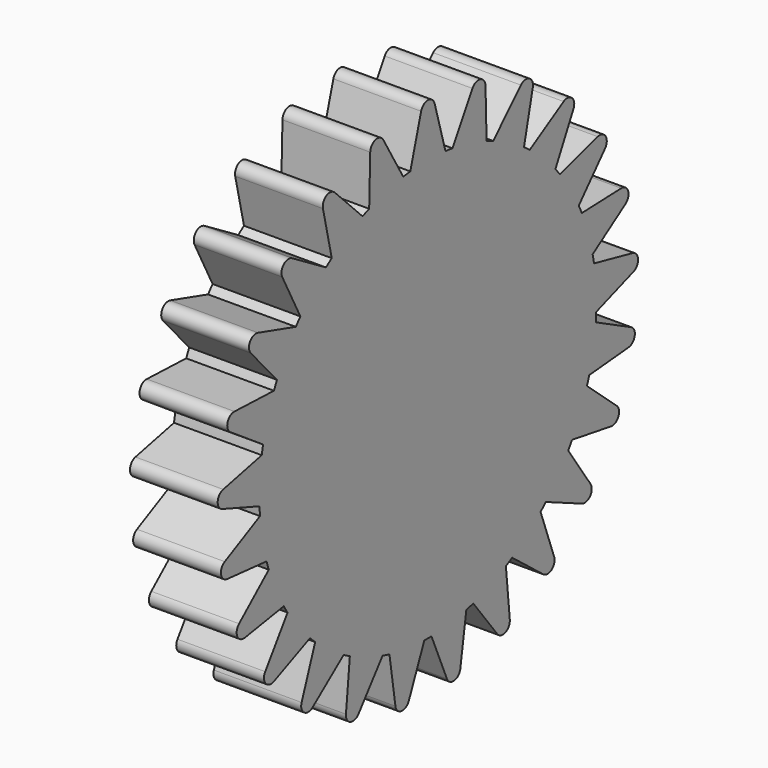
from build123d import *

# Parameters (mm, degrees)
F1_DEPTH = 5


with BuildPart() as f1:
    # F0 (on Right) → F1 (new body)
    with BuildSketch(Plane.YZ):
        with BuildLine():
            Line((1.251901, 11.934519), (0.480814, 14.637179))
            ThreePointArc((0.480814, 14.637179), (0, 15), (-0.480814, 14.637179))
            Line((-0.480814, 14.637179), (-1.251901, 11.934519))
            ThreePointArc((-1.251901, 11.934519), (0, 12), (1.251901, 11.934519))
        make_face()
        with BuildLine():
            ThreePointArc((1.755424, 11.870909), (1.503999, 11.905376), (1.251901, 11.934519))
            ThreePointArc((1.251901, 11.934519), (0, 12), (-1.251901, 11.934519))
            ThreePointArc((-1.251901, 11.934519), (-1.503999, 11.905376), (-1.755424, 11.870909))
            ThreePointArc((-1.755424, 11.870909), (-2.984279, 11.622998), (-4.180564, 11.248239))
            ThreePointArc((-4.180564, 11.248239), (-4.417495, 11.157318), (-4.652449, 11.061407))
            ThreePointArc((-4.652449, 11.061407), (-5.781044, 10.51568), (-6.846547, 9.855191))
            ThreePointArc((-6.846547, 9.855191), (-7.053423, 9.708204), (-7.257144, 9.556875))
            ThreePointArc((-7.257144, 9.556875), (-8.214565, 8.747624), (-9.082337, 7.842905))
            ThreePointArc((-9.082337, 7.842905), (-9.246159, 7.649088), (-9.405846, 7.45185))
            ThreePointArc((-9.405846, 7.45185), (-10.131935, 6.429922), (-10.74745, 5.33782))
            ThreePointArc((-10.74745, 5.33782), (-10.857925, 5.109351), (-10.963544, 4.878598))
            ThreePointArc((-10.963544, 4.878598), (-11.412678, 3.708204), (-11.737261, 2.497341))
            ThreePointArc((-11.737261, 2.497341), (-11.787447, 2.248576), (-11.832361, 1.998805))
            ThreePointArc((-11.832361, 1.998805), (-11.976321, 0.753486), (-11.989576, -0.500056))
            ThreePointArc((-11.989576, -0.500056), (-11.976321, -0.753486), (-11.957709, -1.00658))
            ThreePointArc((-11.957709, -1.00658), (-11.787447, -2.248576), (-11.488543, -3.466032))
            ThreePointArc((-11.488543, -3.466032), (-11.412678, -3.708204), (-11.331709, -3.948717))
            ThreePointArc((-11.331709, -3.948717), (-10.857925, -5.109351), (-10.265642, -6.214225))
            ThreePointArc((-10.265642, -6.214225), (-10.131935, -6.429922), (-9.993697, -6.642743))
            ThreePointArc((-9.993697, -6.642743), (-9.246159, -7.649088), (-8.397713, -8.571955))
            ThreePointArc((-8.397713, -8.571955), (-8.214565, -8.747624), (-8.027743, -8.91938))
            ThreePointArc((-8.027743, -8.91938), (-7.053423, -9.708204), (-6.002125, -10.391077))
            ThreePointArc((-6.002125, -10.391077), (-5.781044, -10.51568), (-5.557377, -10.63558))
            ThreePointArc((-5.557377, -10.63558), (-4.417495, -11.157318), (-3.229402, -11.557291))
            ThreePointArc((-3.229402, -11.557291), (-2.984279, -11.622998), (-2.737821, -11.683507))
            ThreePointArc((-2.737821, -11.683507), (-1.503999, -11.905376), (-0.253763, -11.997317))
            ThreePointArc((-0.253763, -11.997317), (0, -12), (0.253763, -11.997317))
            ThreePointArc((0.253763, -11.997317), (1.503999, -11.905376), (2.737821, -11.683507))
            ThreePointArc((2.737821, -11.683507), (2.984279, -11.622998), (3.229402, -11.557291))
            ThreePointArc((3.229402, -11.557291), (4.417495, -11.157318), (5.557377, -10.63558))
            ThreePointArc((5.557377, -10.63558), (5.781044, -10.51568), (6.002125, -10.391077))
            ThreePointArc((6.002125, -10.391077), (7.053423, -9.708204), (8.027743, -8.91938))
            ThreePointArc((8.027743, -8.91938), (8.214565, -8.747624), (8.397713, -8.571955))
            ThreePointArc((8.397713, -8.571955), (9.246159, -7.649088), (9.993697, -6.642743))
            ThreePointArc((9.993697, -6.642743), (10.131935, -6.429922), (10.265642, -6.214225))
            ThreePointArc((10.265642, -6.214225), (10.857925, -5.109351), (11.331709, -3.948717))
            ThreePointArc((11.331709, -3.948717), (11.412678, -3.708204), (11.488543, -3.466032))
            ThreePointArc((11.488543, -3.466032), (11.787447, -2.248576), (11.957709, -1.00658))
            ThreePointArc((11.957709, -1.00658), (11.976321, -0.753486), (11.989576, -0.500056))
            ThreePointArc((11.989576, -0.500056), (11.997394, -0.250082), (12, 0))
            ThreePointArc((12, 0), (11.958017, 1.002911), (11.832361, 1.998805))
            ThreePointArc((11.832361, 1.998805), (11.787447, 2.248576), (11.737261, 2.497341))
            ThreePointArc((11.737261, 2.497341), (11.412678, 3.708204), (10.963544, 4.878598))
            ThreePointArc((10.963544, 4.878598), (10.857925, 5.109351), (10.74745, 5.33782))
            ThreePointArc((10.74745, 5.33782), (10.131935, 6.429922), (9.405846, 7.45185))
            ThreePointArc((9.405846, 7.45185), (9.246159, 7.649088), (9.082337, 7.842905))
            ThreePointArc((9.082337, 7.842905), (8.214565, 8.747624), (7.257144, 9.556875))
            ThreePointArc((7.257144, 9.556875), (7.053423, 9.708204), (6.846547, 9.855191))
            ThreePointArc((6.846547, 9.855191), (5.781044, 10.51568), (4.652449, 11.061407))
            ThreePointArc((4.652449, 11.061407), (4.417495, 11.157318), (4.180564, 11.248239))
            ThreePointArc((4.180564, 11.248239), (2.984279, 11.622998), (1.755424, 11.870909))
        make_face()
        with BuildLine():
            Line((3.17441, 14.296899), (1.755424, 11.870909))
            ThreePointArc((1.755424, 11.870909), (2.984279, 11.622998), (4.180564, 11.248239))
            Line((4.180564, 11.248239), (4.105827, 14.057752))
            ThreePointArc((4.105827, 14.057752), (3.730348, 14.528747), (3.17441, 14.296899))
        make_face()
        with BuildLine():
            ThreePointArc((-4.180564, 11.248239), (-2.984279, 11.622998), (-1.755424, 11.870909))
            Line((-1.755424, 11.870909), (-3.17441, 14.296899))
            ThreePointArc((-3.17441, 14.296899), (-3.730348, 14.528747), (-4.105827, 14.057752))
            Line((-4.105827, 14.057752), (-4.180564, 11.248239))
        make_face()
        with BuildLine():
            Line((6.630175, 13.058292), (4.652449, 11.061407))
            ThreePointArc((4.652449, 11.061407), (5.781044, 10.51568), (6.846547, 9.855191))
            Line((6.846547, 9.855191), (7.472855, 12.595024))
            ThreePointArc((7.472855, 12.595024), (7.226305, 13.1446), (6.630175, 13.058292))
        make_face()
        with BuildLine():
            ThreePointArc((-6.846547, 9.855191), (-5.781044, 10.51568), (-4.652449, 11.061407))
            Line((-4.652449, 11.061407), (-6.630175, 13.058292))
            ThreePointArc((-6.630175, 13.058292), (-7.226305, 13.1446), (-7.472855, 12.595024))
            Line((-7.472855, 12.595024), (-6.846547, 9.855191))
        make_face()
        with BuildLine():
            Line((9.669341, 10.999184), (7.257144, 9.556875))
            ThreePointArc((7.257144, 9.556875), (8.214565, 8.747624), (9.082337, 7.842905))
            Line((9.082337, 7.842905), (10.370337, 10.340905))
            ThreePointArc((10.370337, 10.340905), (10.268207, 10.934529), (9.669341, 10.999184))
        make_face()
        with BuildLine():
            ThreePointArc((-9.082337, 7.842905), (-8.214565, 8.747624), (-7.257144, 9.556875))
            Line((-7.257144, 9.556875), (-9.669341, 10.999184))
            ThreePointArc((-9.669341, 10.999184), (-10.268207, 10.934529), (-10.370337, 10.340905))
            Line((-10.370337, 10.340905), (-9.082337, 7.842905))
        make_face()
        with BuildLine():
            Line((12.100946, 8.248957), (9.405846, 7.45185))
            ThreePointArc((9.405846, 7.45185), (10.131935, 6.429922), (10.74745, 5.33782))
            Line((10.74745, 5.33782), (12.616212, 7.437028))
            ThreePointArc((12.616212, 7.437028), (12.664919, 8.037402), (12.100946, 8.248957))
        make_face()
        with BuildLine():
            ThreePointArc((-10.74745, 5.33782), (-10.131935, 6.429922), (-9.405846, 7.45185))
            Line((-9.405846, 7.45185), (-12.100946, 8.248957))
            ThreePointArc((-12.100946, 8.248957), (-12.664919, 8.037402), (-12.616212, 7.437028))
            Line((-12.616212, 7.437028), (-10.74745, 5.33782))
        make_face()
        with BuildLine():
            Line((13.772205, 4.980418), (10.963544, 4.878598))
            ThreePointArc((10.963544, 4.878598), (11.412678, 3.708204), (11.737261, 2.497341))
            Line((11.737261, 2.497341), (14.069364, 4.065856))
            ThreePointArc((14.069364, 4.065856), (14.265848, 4.635255), (13.772205, 4.980418))
        make_face()
        with BuildLine():
            ThreePointArc((-11.737261, 2.497341), (-11.412678, 3.708204), (-10.963544, 4.878598))
            Line((-10.963544, 4.878598), (-13.772205, 4.980418))
            ThreePointArc((-13.772205, 4.980418), (-14.265848, 4.635255), (-14.069364, 4.065856))
            Line((-14.069364, 4.065856), (-11.737261, 2.497341))
        make_face()
        with BuildLine():
            Line((14.578106, 1.398941), (11.832361, 1.998805))
            ThreePointArc((11.832361, 1.998805), (11.958017, 1.002911), (12, 0))
            ThreePointArc((12, 0), (11.997394, -0.250082), (11.989576, -0.500056))
            Line((11.989576, -0.500056), (14.638487, 0.439211))
            ThreePointArc((14.638487, 0.439211), (14.970401, 0.941858), (14.578106, 1.398941))
        make_face()
        with BuildLine():
            ThreePointArc((-11.989576, -0.500056), (-11.976321, 0.753486), (-11.832361, 1.998805))
            Line((-11.832361, 1.998805), (-14.578106, 1.398941))
            ThreePointArc((-14.578106, 1.398941), (-14.970401, 0.941858), (-14.638487, 0.439211))
            Line((-14.638487, 0.439211), (-11.989576, -0.500056))
        make_face()
        with BuildLine():
            ThreePointArc((-11.488543, -3.466032), (-11.787447, -2.248576), (-11.957709, -1.00658))
            Line((-11.957709, -1.00658), (-14.46801, -2.270437))
            ThreePointArc((-14.46801, -2.270437), (-14.734309, -2.81072), (-14.287819, -3.215031))
            Line((-14.287819, -3.215031), (-11.488543, -3.466032))
        make_face()
        with BuildLine():
            Line((14.46801, -2.270437), (11.957709, -1.00658))
            ThreePointArc((11.957709, -1.00658), (11.787447, -2.248576), (11.488543, -3.466032))
            Line((11.488543, -3.466032), (14.287819, -3.215031))
            ThreePointArc((14.287819, -3.215031), (14.734309, -2.81072), (14.46801, -2.270437))
        make_face()
        with BuildLine():
            ThreePointArc((-10.265642, -6.214225), (-10.857925, -5.109351), (-11.331709, -3.948717))
            Line((-11.331709, -3.948717), (-13.448836, -5.797155))
            ThreePointArc((-13.448836, -5.797155), (-13.572406, -6.386689), (-13.039395, -6.667261))
            Line((-13.039395, -6.667261), (-10.265642, -6.214225))
        make_face()
        with BuildLine():
            Line((13.448836, -5.797155), (11.331709, -3.948717))
            ThreePointArc((11.331709, -3.948717), (10.857925, -5.109351), (10.265642, -6.214225))
            Line((10.265642, -6.214225), (13.039395, -6.667261))
            ThreePointArc((13.039395, -6.667261), (13.572406, -6.386689), (13.448836, -5.797155))
        make_face()
        with BuildLine():
            ThreePointArc((-8.397713, -8.571955), (-9.246159, -7.649088), (-9.993697, -6.642743))
            Line((-9.993697, -6.642743), (-11.584623, -8.959616))
            ThreePointArc((-11.584623, -8.959616), (-11.557699, -9.56136), (-10.971658, -9.700563))
            Line((-10.971658, -9.700563), (-8.397713, -8.571955))
        make_face()
        with BuildLine():
            Line((11.584623, -8.959616), (9.993697, -6.642743))
            ThreePointArc((9.993697, -6.642743), (9.246159, -7.649088), (8.397713, -8.571955))
            Line((8.397713, -8.571955), (10.971658, -9.700563))
            ThreePointArc((10.971658, -9.700563), (11.557699, -9.56136), (11.584623, -8.959616))
        make_face()
        with BuildLine():
            ThreePointArc((-6.002125, -10.391077), (-7.053423, -9.708204), (-8.027743, -8.91938))
            Line((-8.027743, -8.91938), (-8.992505, -11.559112))
            ThreePointArc((-8.992505, -11.559112), (-8.816779, -12.135255), (-8.214532, -12.124342))
            Line((-8.214532, -12.124342), (-6.002125, -10.391077))
        make_face()
        with BuildLine():
            Line((8.992505, -11.559112), (8.027743, -8.91938))
            ThreePointArc((8.027743, -8.91938), (7.053423, -9.708204), (6.002125, -10.391077))
            Line((6.002125, -10.391077), (8.214532, -12.124342))
            ThreePointArc((8.214532, -12.124342), (8.816779, -12.135255), (8.992505, -11.559112))
        make_face()
        with BuildLine():
            ThreePointArc((-3.229402, -11.557291), (-4.417495, -11.157318), (-5.557377, -10.63558))
            Line((-5.557377, -10.63558), (-5.835354, -13.432306))
            ThreePointArc((-5.835354, -13.432306), (-5.521868, -13.946647), (-4.941256, -13.786305))
            Line((-4.941256, -13.786305), (-3.229402, -11.557291))
        make_face()
        with BuildLine():
            Line((5.835354, -13.432306), (5.557377, -10.63558))
            ThreePointArc((5.557377, -10.63558), (4.417495, -11.157318), (3.229402, -11.557291))
            Line((3.229402, -11.557291), (4.941256, -13.786305))
            ThreePointArc((4.941256, -13.786305), (5.521868, -13.946647), (5.835354, -13.432306))
        make_face()
        with BuildLine():
            ThreePointArc((-0.253763, -11.997317), (-1.503999, -11.905376), (-2.737821, -11.683507))
            Line((-2.737821, -11.683507), (-2.311547, -14.461499))
            ThreePointArc((-2.311547, -14.461499), (-1.879999, -14.881721), (-1.357503, -14.582023))
            Line((-1.357503, -14.582023), (-0.253763, -11.997317))
        make_face()
        with BuildLine():
            Line((2.311547, -14.461499), (2.737821, -11.683507))
            ThreePointArc((2.737821, -11.683507), (1.503999, -11.905376), (0.253763, -11.997317))
            Line((0.253763, -11.997317), (1.357503, -14.582023))
            ThreePointArc((1.357503, -14.582023), (1.879999, -14.881721), (2.311547, -14.461499))
        make_face()
    extrude(amount=F1_DEPTH)


solid = f1.part
